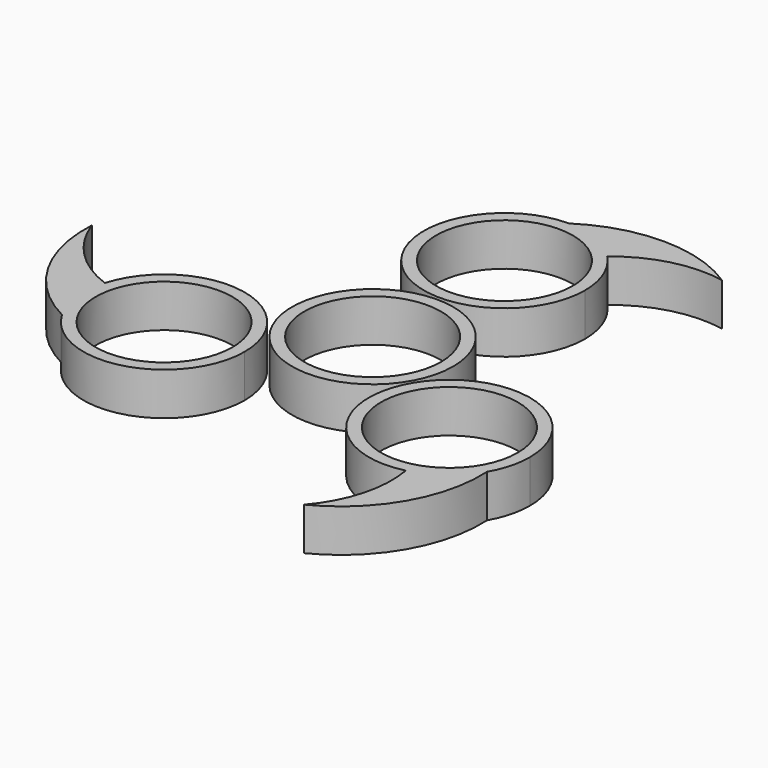
from build123d import *

# Parameters (mm, degrees)
F0_R     = 11.2
F0_R_2   = 13.2
F1_DEPTH = 7


with BuildPart() as f1:
    # F0 (on Top) → F1 (new body)
    with BuildSketch(Plane.XY):
        with BuildLine():
            ThreePointArc((0, 40.183239), (-9.33381, 17.649429), (13.2, 26.983239))
            ThreePointArc((13.2, 26.983239), (12.253106, 31.892556), (9.548274, 36.097539))
            ThreePointArc((9.548274, 36.097539), (5.192843, 39.118904), (0, 40.183239))
        make_face()
        with Locations((0, 26.983239)):
            Circle(F0_R, mode=Mode.SUBTRACT)
        with BuildLine():
            ThreePointArc((34.799706, -20.091619), (36.118391, -16.908031), (36.56817, -13.491619))
            ThreePointArc((36.56817, -13.491619), (12.990024, -5.334777), (26.487249, -26.317817))
            ThreePointArc((26.487249, -26.317817), (31.281543, -24.056586), (34.799706, -20.091619))
        make_face()
        with Locations((23.36817, -13.491619)):
            Circle(F0_R, mode=Mode.SUBTRACT)
        with BuildLine():
            ThreePointArc((0, 40.183239), (5.192843, 39.118904), (9.548274, 36.097539))
            ThreePointArc((9.548274, 36.097539), (16.871486, 39.86786), (25.103807, 40.139247))
            ThreePointArc((25.103807, 40.139247), (12.558462, 43.903601), (0, 40.183239))
        make_face()
        with BuildLine():
            ThreePointArc((-34.799706, -20.091619), (-19.951759, -26.24184), (-10.16817, -13.491619))
            ThreePointArc((-10.16817, -13.491619), (-21.49321, -0.42546), (-36.035523, -9.779722))
            ThreePointArc((-36.035523, -9.779722), (-36.474387, -15.062318), (-34.799706, -20.091619))
        make_face()
        with Locations((-23.36817, -13.491619)):
            Circle(F0_R, mode=Mode.SUBTRACT)
        with BuildLine():
            ThreePointArc((-34.799706, -20.091619), (-36.474387, -15.062318), (-36.035523, -9.779722))
            ThreePointArc((-36.035523, -9.779722), (-42.962323, -5.322795), (-47.313511, 1.670912))
            ThreePointArc((-47.313511, 1.670912), (-44.300864, -11.075853), (-34.799706, -20.091619))
        make_face()
        with BuildLine():
            ThreePointArc((34.799706, -20.091619), (31.281543, -24.056586), (26.487249, -26.317817))
            ThreePointArc((26.487249, -26.317817), (26.090837, -34.545066), (22.209704, -41.810158))
            ThreePointArc((22.209704, -41.810158), (31.742402, -32.827747), (34.799706, -20.091619))
        make_face()
        Circle(F0_R_2)
        Circle(F0_R, mode=Mode.SUBTRACT)
    extrude(amount=F1_DEPTH)


solid = f1.part
